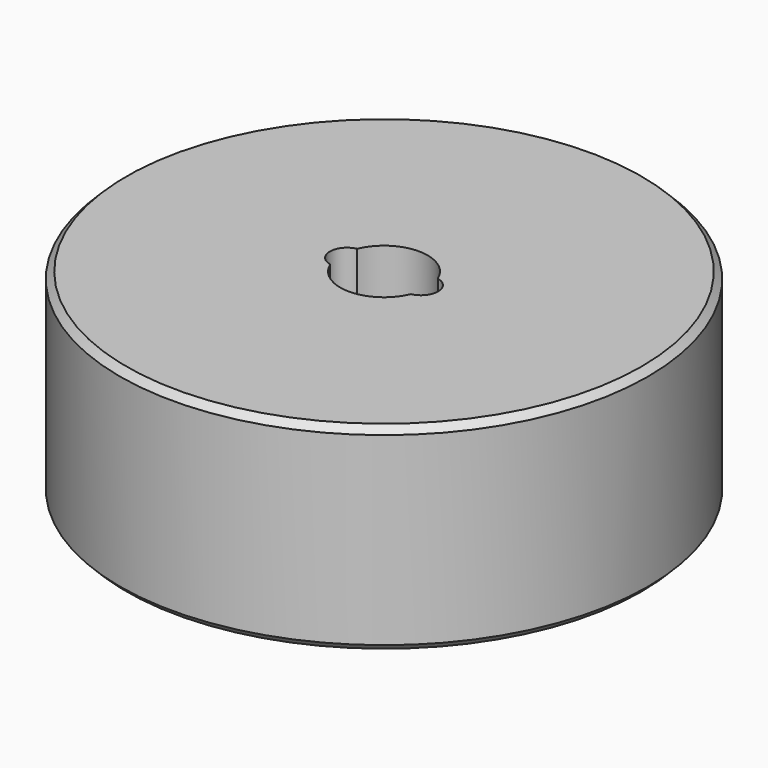
from build123d import *

# Parameters (mm, degrees)
F0_R     = 20
F1_DEPTH = 15
F2_SIZE  = 0.5


with BuildPart() as f1:
    # F0 (on Top) → F1 (new body)
    with BuildSketch(Plane.XY):
        Circle(F0_R)
        with BuildLine():
            ThreePointArc((3.054661, -1.274813), (0, -3.31), (-3.054661, -1.274813))
            ThreePointArc((-3.054661, -1.274813), (-4.1, 0), (-3.054661, 1.274813))
            ThreePointArc((-3.054661, 1.274813), (0, 3.31), (3.054661, 1.274813))
            ThreePointArc((3.054661, 1.274813), (4.1, 0), (3.054661, -1.274813))
        make_face(mode=Mode.SUBTRACT)
    extrude(amount=F1_DEPTH)

    # F2
    f2_edges = [f1.edges().sort_by_distance(p)[0] for p in [
        (-20, 0, 15),
        (-20, 0, 0),
    ]]
    chamfer(f2_edges, length=F2_SIZE)


solid = f1.part
